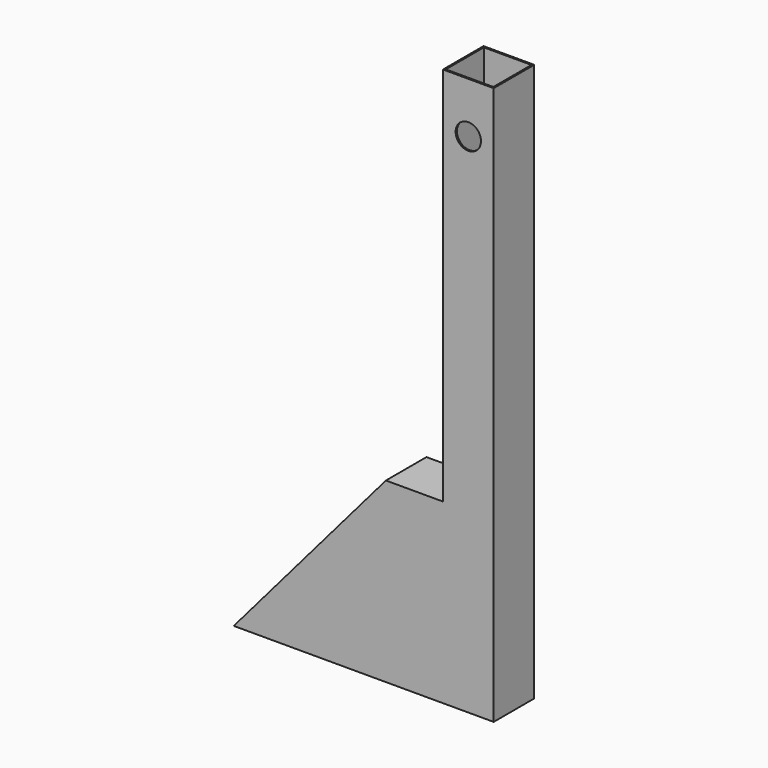
from build123d import *

# Parameters (mm, degrees)
F0_W     = 25.4
F0_H     = 25.4
F0_W_2   = 23.8125
F0_H_2   = 23.8125
F1_DEPTH = 279.4
F3_DEPTH = 25.4
F6_DEPTH = 25.4


with BuildPart() as f1:
    # F0 (on Top) → F1 (new body)
    with BuildSketch(Plane.XY):
        Rectangle(F0_W, F0_H)
        Rectangle(F0_W_2, F0_H_2, mode=Mode.SUBTRACT)
    extrude(amount=F1_DEPTH)


with BuildPart() as f3:
    # F2 (on face) → F3 (new body)
    with BuildSketch(Plane.XZ.offset(12.7)):
        Polygon((-117.475, 0), (-12.7, 0), (-12.7, 88.9), (-41.275, 88.9), align=None)
    extrude(amount=-F3_DEPTH)


with BuildPart() as f1_1:
    add(f1.part)

    # F4: union F3
    add(f3.part)

    # F5 (on face) → F6 (cut)
    with BuildSketch(Plane.XZ.offset(12.7)):
        with BuildLine():
            ThreePointArc((6.35, 254), (4.4901280605, 258.4901280605), (0, 260.35))
            ThreePointArc((0, 260.35), (-4.4901280605, 249.5098719395), (6.35, 254))
        make_face()
    extrude(amount=-F6_DEPTH, mode=Mode.SUBTRACT)


solid = f1_1.part
